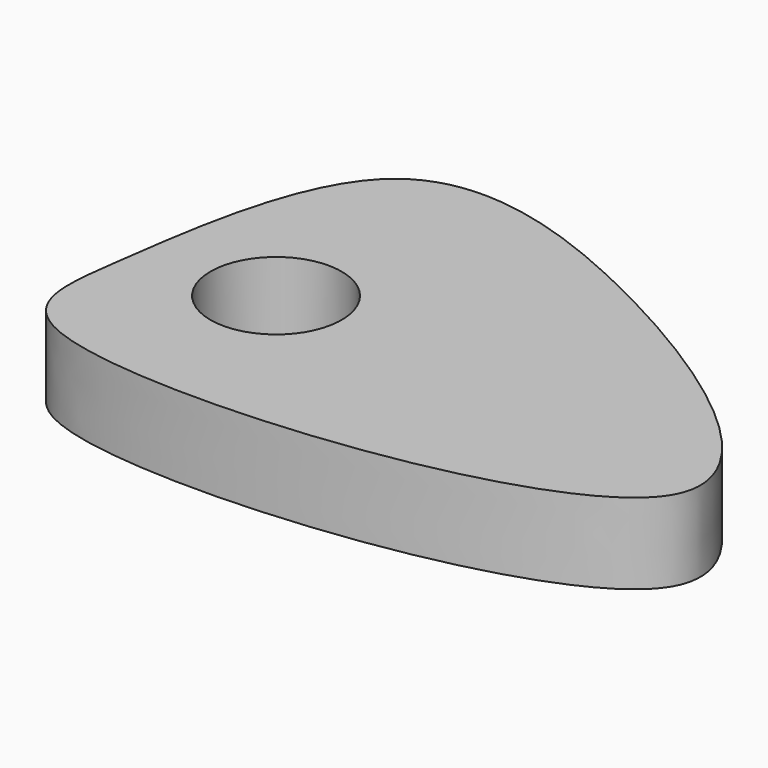
from build123d import *

# Parameters (mm, degrees)
F1_DEPTH = 24.6
F3_D     = 40


with BuildPart() as f1:
    # F0 (on Top) → F1 (new body)
    with BuildSketch(Plane.XY):
        with BuildLine():
            add(Edge.make_bspline(
                [(-90.7017812133, -44.2164130509), (-87.2951766536, -19.3386212515), (-78.2572317706, 50.8527069634), (9.212308129, 29.2079941802), (162.6994054713, -74.5426669959), (-98.8301450795, -100.3665161081), (-93.1083617996, -61.7912180293), (-90.7017812133, -44.2164130509)],
                knots=[0, 0, 0, 0, 0.186672163, 0.3744223937, 0.5938744415, 0.8681262837, 1, 1, 1, 1], degree=3))
        make_face()
    extrude(amount=F1_DEPTH)

    # F3 (through all)
    with Locations(Plane.XY.offset(24.6)):
        with Locations((-50.1700006425, -34.0551808476)):
            Hole(F3_D / 2)


with BuildPart() as f1_1:
    # F4: moved
    add(f1.part.moved(Location((50.1700006425, 34.0551808476, -24.6))))


solid = f1_1.part
